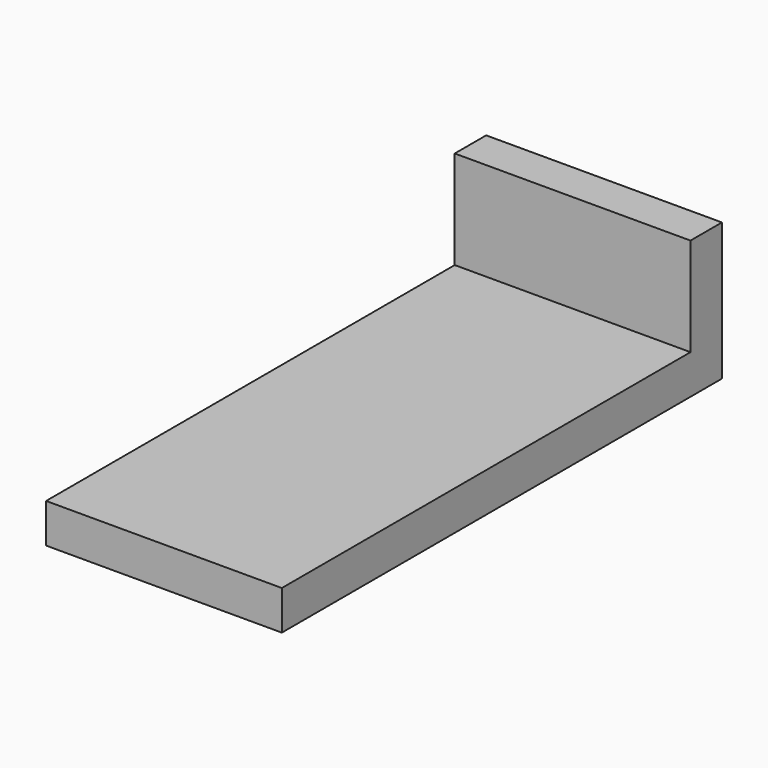
from build123d import *

# Parameters (mm, degrees)
BOX002_W     = 60
BOX002_H     = 40
BOX002_DEPTH = 10
BOX001_W     = 60
BOX001_H     = 10
BOX001_DEPTH = 25
BOX_W        = 60
BOX_H        = 100
BOX_DEPTH    = 10


with BuildPart() as cubo002:
    # Box002 → Box002 (new body)
    with BuildSketch(Plane(origin=(0, -130, 0), x_dir=(1, 0, 0), z_dir=(0, 0, 1))):
        with Locations((30, 20)):
            Rectangle(BOX002_W, BOX002_H)
    extrude(amount=BOX002_DEPTH)


with BuildPart() as cubo001:
    # Box001 → Box001 (new body)
    with BuildSketch(Plane.XY.offset(10)):
        with Locations((30, 5)):
            Rectangle(BOX001_W, BOX001_H)
    extrude(amount=BOX001_DEPTH)


with BuildPart() as fusion001:
    # Box → Box (new body)
    with BuildSketch(Plane(origin=(0, -90, 0), x_dir=(1, 0, 0), z_dir=(0, 0, 1))):
        with Locations((30, 50)):
            Rectangle(BOX_W, BOX_H)
    extrude(amount=BOX_DEPTH)

    # Fusion: union Cubo001
    add(cubo001.part)

    # Fusion001: union Cubo002
    add(cubo002.part)


solid = fusion001.part
